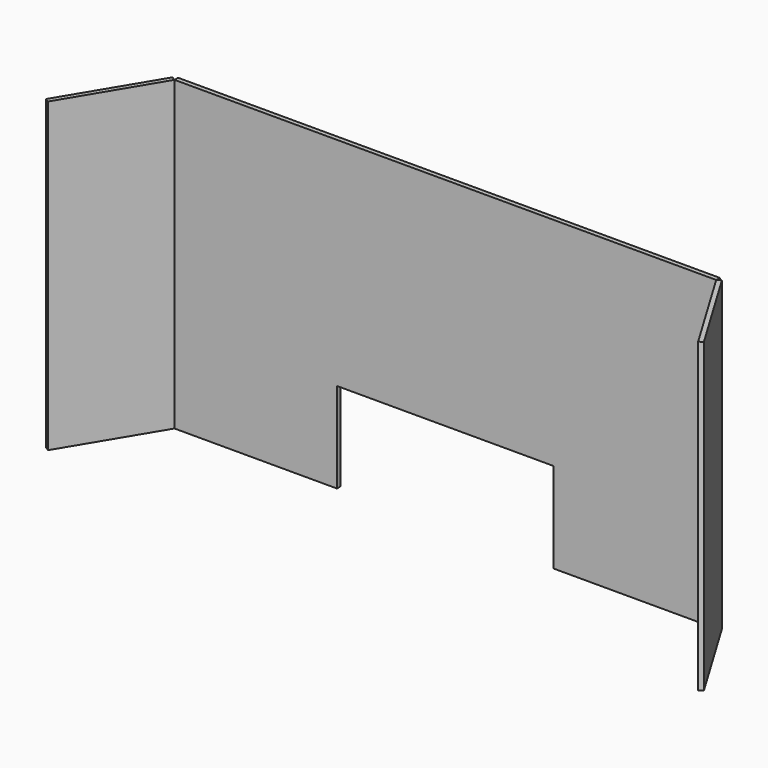
from build123d import *

# Parameters (mm, degrees)
F1_DEPTH = 6.35
F3_DEPTH = 431.8
F5_DEPTH = 431.8


with BuildPart() as f1:
    # F0 (on Front) → F1 (new body)
    with BuildSketch(Plane.XZ):
        Polygon((0, -431.8), (0, 0), (-762, 0), (-762, -431.8), (-533.4, -431.8), (-533.4, -304.8), (-228.6, -304.8), (-228.6, -431.8), align=None)
    extrude(amount=F1_DEPTH)


with BuildPart() as f3:
    # F2 (on Top) → F3 (new body)
    with BuildSketch(Plane.XY):
        Polygon((7.405309, -6.35), (0, -6.35), (76.2, -133.35), (81.64508, -130.082952), align=None)
        Polygon((5.44508, -3.082952), (0, -6.35), (7.405309, -6.35), align=None)
    extrude(amount=-F3_DEPTH)


with BuildPart() as f5:
    # F4 (on Top) → F5 (new body)
    with BuildSketch(Plane.XY):
        Polygon((-838.202375, -133.35), (-762, -6.35), (-767.445035, -3.082877), (-843.64741, -130.082877), align=None)
    extrude(amount=-F5_DEPTH)


solid = Compound([f1.part, f3.part, f5.part])
